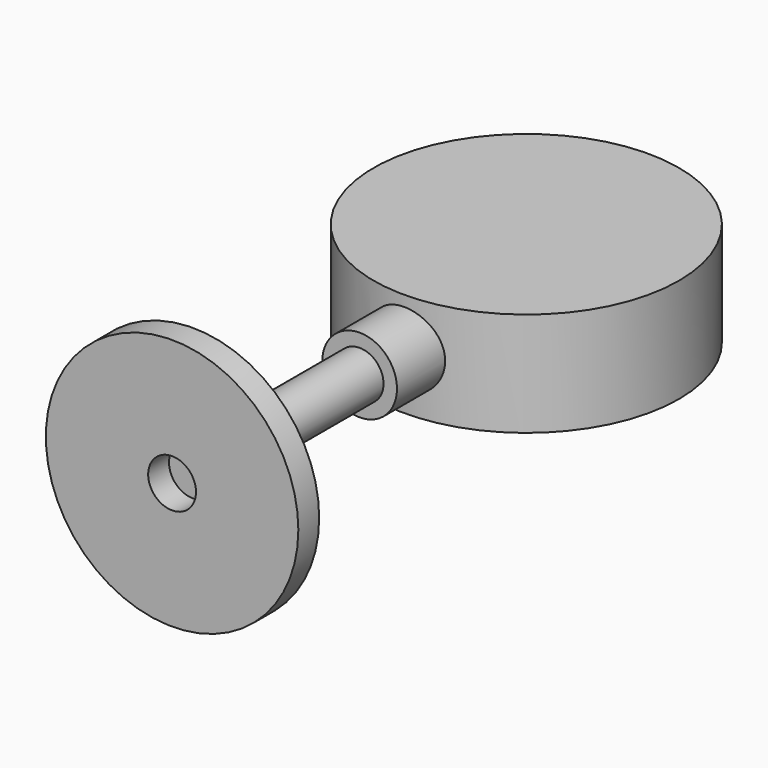
from build123d import *

# Parameters (mm, degrees)
F0_R     = 18.620809
F1_DEPTH = 12.7
F2_R     = 4.552994
F3_DEPTH = 25.4
F4_R     = 2.914756
F5_DEPTH = 25.4
F6_R     = 15.390344
F6_R_2   = 2.914756
F7_DEPTH = 3.175


with BuildPart() as f1:
    # F0 (on Top) → F1 (new body)
    with BuildSketch(Plane.XY):
        Circle(F0_R)
    extrude(amount=F1_DEPTH)

    # F2 (on Front) → F3 (join)
    with BuildSketch(Plane.XZ):
        with Locations((0, 6.849673)):
            Circle(F2_R)
    extrude(amount=F3_DEPTH)

    # F4 (on face) → F5 (join)
    with BuildSketch(Plane.XZ.offset(25.4)):
        with Locations((0, 6.849673)):
            Circle(F4_R)
    extrude(amount=F5_DEPTH)


with BuildPart() as f7:
    # F6 (on face) → F7 (new body)
    with BuildSketch(Plane.XZ.offset(50.8)):
        with Locations((0, 6.849673)):
            Circle(F6_R)
        with Locations((0, 6.849673)):
            Circle(F6_R_2, mode=Mode.SUBTRACT)
    extrude(amount=F7_DEPTH)


solid = Compound([f1.part, f7.part])
